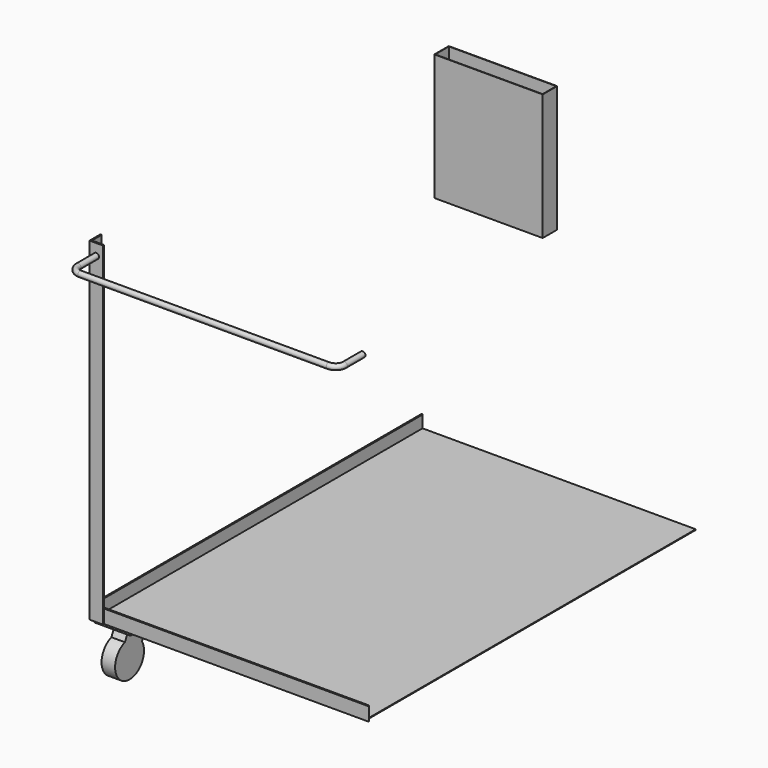
from build123d import *

# Parameters (mm, degrees)
F7_DEPTH  = 457
F9_DEPTH  = 30
F11_DEPTH = 614
F13_DEPTH = 30
F15_DEPTH = 739
F16_W     = 80
F16_H     = 105
F17_DEPTH = 6
F19_D     = 9
F22_R     = 6
F25_W     = 240
F25_H     = 280
F26_DEPTH = 40
F27_T     = -1
F29_W     = 605
F29_H     = 905
F30_DEPTH = 1.5
F35_DEPTH = 15
F37_DEPTH = 15


with BuildPart() as f7:
    # F6 (on Front) → F7 (new body, symmetric)
    with BuildSketch(Plane.XZ):
        with BuildLine():
            ThreePointArc((5, 0), (1.4644660941, 1.4644660941), (0, 5))
            Line((0, 5), (0, 0))
            Line((0, 0), (5, 0))
        make_face()
        with BuildLine():
            Line((0, 30), (0, 5))
            ThreePointArc((0, 5), (1.4644660941, 1.4644660941), (5, 0))
            Line((5, 0), (30, 0))
            Line((30, 0), (30, 3))
            Line((30, 3), (5, 3))
            Line((5, 3), (3, 3))
            Line((3, 3), (3, 5))
            Line((3, 5), (3, 30))
            Line((3, 30), (0, 30))
        make_face()
    extrude(amount=F7_DEPTH, both=True)

    # F8 (on Top) → F9 (cut, through all)
    with BuildSketch(Plane.XY):
        Polygon((30, -427), (0, -457), (30, -457), align=None)
        Polygon((0, 457), (30, 427), (30, 457), align=None)
    extrude(amount=F9_DEPTH, mode=Mode.SUBTRACT)


with BuildPart() as f11:
    # F10 (on Right) → F11 (new body)
    with BuildSketch(Plane.YZ):
        with BuildLine():
            ThreePointArc((-452, 0), (-455.5355339059, 1.4644660941), (-457, 5))
            Line((-457, 5), (-457, 0))
            Line((-457, 0), (-452, 0))
        make_face()
        with BuildLine():
            Line((-457, 30), (-457, 5))
            ThreePointArc((-457, 5), (-455.5355339059, 1.4644660941), (-452, 0))
            Line((-452, 0), (-427, 0))
            Line((-427, 0), (-427, 3))
            Line((-427, 3), (-452, 3))
            Line((-452, 3), (-454, 3))
            Line((-454, 3), (-454, 5))
            Line((-454, 5), (-454, 30))
            Line((-454, 30), (-457, 30))
        make_face()
    extrude(amount=F11_DEPTH)

    # F12 (on Top) → F13 (cut, through all)
    with BuildSketch(Plane.XY):
        Polygon((0, -457), (30, -427), (0, -427), align=None)
        Polygon((614, -427), (584, -427), (614, -457), align=None)
    extrude(amount=F13_DEPTH, mode=Mode.SUBTRACT)


with BuildPart() as f15:
    # F14 (on Top) → F15 (new body)
    with BuildSketch(Plane.XY):
        with BuildLine():
            ThreePointArc((2, -460), (-1.5355339059, -458.5355339059), (-3, -455))
            Line((-3, -455), (-3, -460))
            Line((-3, -460), (2, -460))
        make_face()
        with BuildLine():
            Line((-3, -430), (-3, -455))
            ThreePointArc((-3, -455), (-1.5355339059, -458.5355339059), (2, -460))
            Line((2, -460), (27, -460))
            Line((27, -460), (27, -457))
            Line((27, -457), (2, -457))
            Line((2, -457), (0, -457))
            Line((0, -457), (0, -455))
            Line((0, -455), (0, -430))
            Line((0, -430), (-3, -430))
        make_face()
    extrude(amount=F15_DEPTH)


with BuildPart() as f17:
    # F16 (on Top) → F17 (new body)
    with BuildSketch(Plane.XY):
        with Locations((43, -401.5)):
            Rectangle(F16_W, F16_H)
    extrude(amount=-F17_DEPTH)

    # F19 (through all)
    with Locations(Plane(origin=(0, 0, -6), x_dir=(1, 0, 0), z_dir=(0, 0, -1))):
        with Locations((13, 441.5), (73, 441.5), (73, 361.5), (13, 361.5)):
            Hole(F19_D / 2)


with BuildPart() as f23:
    # F23: sweep along a path in F21
    with BuildLine(Plane.XY.offset(714)) as f23_path:
        Line((12, -460), (12, -510))
        ThreePointArc((12, -510), (17.8578643763, -524.1421356237), (32, -530))
        Line((32, -530), (582, -530))
        ThreePointArc((582, -530), (596.1421356237, -524.1421356237), (602, -510))
        Line((602, -510), (602, -460))
    # F22 (on face) → F23 (sweep)
    with BuildSketch(Plane.XZ.offset(460)):
        with Locations((12, 714)):
            Circle(F22_R)
    sweep(path=f23_path.line)


with BuildPart() as f26:
    # F25 (on face) → F26 (new body)
    with BuildSketch(Plane(origin=(0, 457, 0), x_dir=(-1, 0, 0), z_dir=(0, 1, 0))):
        with Locations((-147, 599)):
            Rectangle(F25_W, F25_H)
    extrude(amount=F26_DEPTH)

    # F27
    f27_openings = [f26.faces().sort_by_distance(p)[0] for p in [
        (147, 477, 739),
    ]]
    offset(amount=F27_T, openings=f27_openings)


with BuildPart() as f30:
    # F29 (on face) → F30 (new body)
    with BuildSketch(Plane.XY.offset(3)):
        with Locations((307, 0)):
            Rectangle(F29_W, F29_H)
    extrude(amount=F30_DEPTH)


with BuildPart() as f35:
    # F34 (on mid) → F35 (new body, symmetric)
    with BuildSketch(Plane.YZ.offset(43)):
        with BuildLine():
            Line((373.5, -6), (373.5, -39.775010008))
            ThreePointArc((373.5, -39.775010008), (398.5, -111), (423.5, -39.775010008))
            Line((423.5, -39.775010008), (423.5, -6))
            Line((423.5, -6), (373.5, -6))
        make_face()
    extrude(amount=F35_DEPTH, both=True)


with BuildPart() as f37:
    # F36 (on mid) → F37 (new body, symmetric)
    with BuildSketch(Plane.YZ.offset(43)):
        with BuildLine():
            Line((-425.5, -6), (-438.2503401227, -33.0865613963))
            ThreePointArc((-438.2503401227, -33.0865613963), (-439.3549633104, -108.5238589656), (-391.1705020722, -50.4698862149))
            Line((-391.1705020722, -50.4698862149), (-370.2373844955, -6))
            Line((-370.2373844955, -6), (-425.5, -6))
        make_face()
    extrude(amount=F37_DEPTH, both=True)


solid = Compound([f7.part, f11.part, f15.part, f17.part, f23.part, f26.part, f30.part, f35.part, f37.part])
